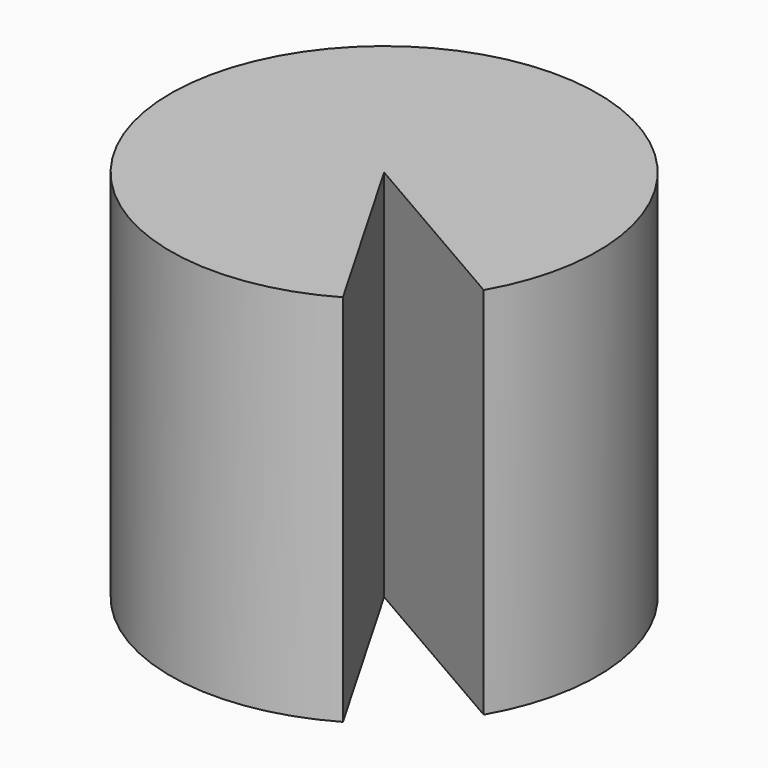
from build123d import *

# Parameters (mm, degrees)
F0_W          = 25.4
F0_H          = 44.45
F1_ANGLE_BACK = 30
F1_ANGLE      = 330


with BuildPart() as f1:
    # F0 (on Front) → F1 (revolve)
    with BuildSketch(Plane.XZ, mode=Mode.PRIVATE) as f1_sk:
        with Locations((12.7, 22.225)):
            Rectangle(F0_W, F0_H)
    revolve(f1_sk.sketch.rotate(Axis((0, 0, 22.225), (0, 0, 1)), -F1_ANGLE_BACK), axis=Axis((0, 0, 22.225), (0, 0, 1)), revolution_arc=F1_ANGLE)


solid = f1.part
